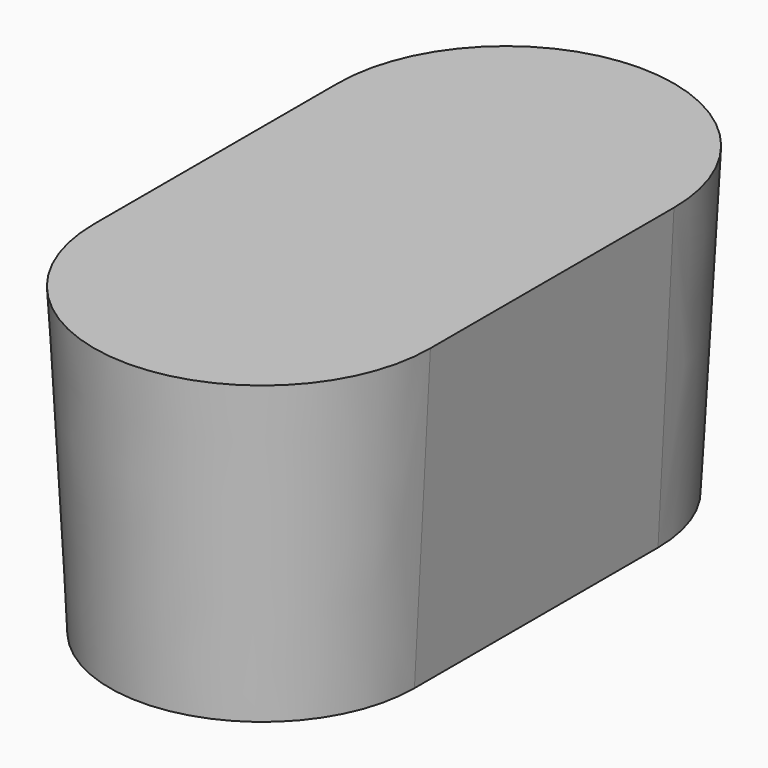
from build123d import *

# Parameters (mm, degrees)
F1_DEPTH = 5
F1_TAPER = -3


with BuildPart() as f1:
    # F0 (on Top) → F1 (new body)
    with BuildSketch(Plane.XY):
        with BuildLine():
            ThreePointArc((2.5, 2.5), (0, 5), (-2.5, 2.5))
            Line((-2.5, 2.5), (2.5, 2.5))
        make_face()
        with BuildLine():
            Line((2.5, 2.5), (-2.5, 2.5))
            ThreePointArc((-2.5, 2.5), (-1.767766953, 0.732233047), (0, 0))
            ThreePointArc((0, 0), (1.767766953, 0.732233047), (2.5, 2.5))
        make_face()
        with BuildLine():
            Line((2.5, -2.5), (2.5, 2.5))
            ThreePointArc((2.5, 2.5), (1.767766953, 0.732233047), (0, 0))
            ThreePointArc((0, 0), (1.767766953, -0.732233047), (2.5, -2.5))
        make_face()
        with BuildLine():
            ThreePointArc((0, 0), (-1.767766953, 0.732233047), (-2.5, 2.5))
            Line((-2.5, 2.5), (-2.5, -2.5))
            ThreePointArc((-2.5, -2.5), (-1.767766953, -0.732233047), (0, 0))
        make_face()
        with BuildLine():
            ThreePointArc((0, 0), (-1.767766953, -0.732233047), (-2.5, -2.5))
            Line((-2.5, -2.5), (2.5, -2.5))
            ThreePointArc((2.5, -2.5), (1.767766953, -0.732233047), (0, 0))
        make_face()
        with BuildLine():
            Line((2.5, -2.5), (-2.5, -2.5))
            ThreePointArc((-2.5, -2.5), (0, -5), (2.5, -2.5))
        make_face()
    extrude(amount=F1_DEPTH, taper=F1_TAPER)


solid = f1.part
